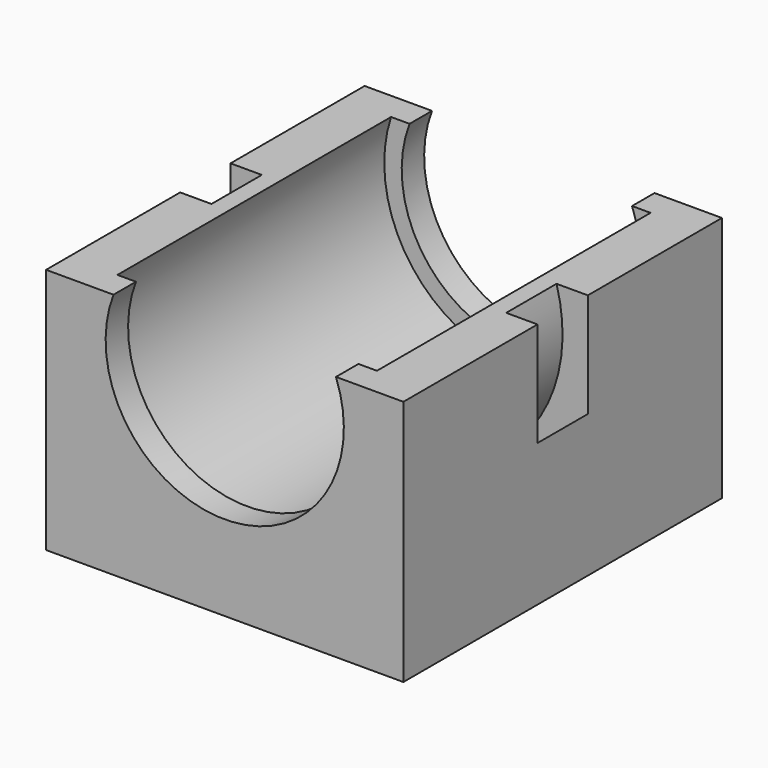
from build123d import *

# Parameters (mm, degrees)
PAD002_DEPTH = 1.85
SKETCH001_R  = 8.025
PAD001_DEPTH = 10.05
SKETCH_W     = 21
SKETCH_H     = 23.4
PAD_DEPTH    = 14.5
SKETCH002_R  = 7
POCKET_DEPTH = 23.401


with BuildPart() as pad002:
    # Sketch003 → Pad002 (new body, symmetric)
    with BuildSketch(Plane.XZ):
        with BuildLine():
            Line((-8.5, 15), (-10.7, 15))
            ThreePointArc((-10.7, 15), (0, 0.887395), (10.7, 15))
            Line((8.5, 15), (10.7, 15))
            ThreePointArc((-8.5, 15), (0, 2.986122), (8.5, 15))
        make_face()
    extrude(amount=PAD002_DEPTH, both=True)


with BuildPart() as pad001:
    # Sketch001 → Pad001 (new body, symmetric)
    with BuildSketch(Plane.XZ):
        with Locations((0, 12)):
            Circle(SKETCH001_R)
    extrude(amount=PAD001_DEPTH, both=True)


with BuildPart() as cut001:
    # Sketch → Pad (new body)
    with BuildSketch(Plane.XY):
        Rectangle(SKETCH_W, SKETCH_H)
    extrude(amount=PAD_DEPTH)

    # Cut: cut Pad001
    add(pad001.part, mode=Mode.SUBTRACT)

    # Sketch002 → Pocket (cut, through all)
    with BuildSketch(Plane.XZ.offset(11.7)):
        with Locations((0, 12)):
            Circle(SKETCH002_R)
    extrude(amount=-POCKET_DEPTH, mode=Mode.SUBTRACT)

    # Cut001: cut Pad002
    add(pad002.part, mode=Mode.SUBTRACT)


solid = cut001.part
